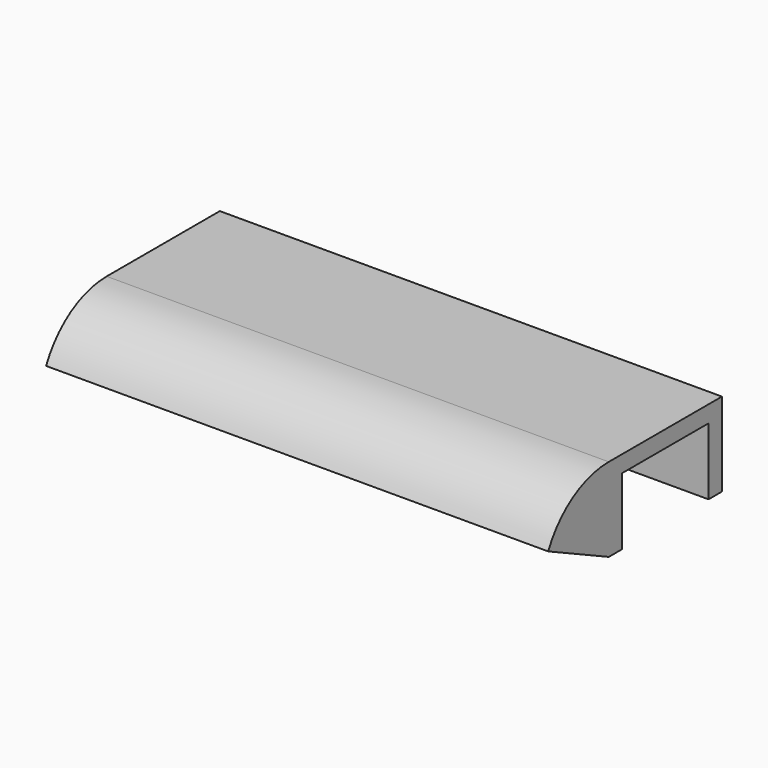
from build123d import *

# Parameters (mm, degrees)
F1_DEPTH = 150


with BuildPart() as f1:
    # F0 (on Right) → F1 (new body)
    with BuildSketch(Plane.YZ):
        with BuildLine():
            Line((-43.745468, 0.644926), (-21.125, -10))
            Line((-21.125, -10), (-21.125, 15))
            ThreePointArc((-21.125, 15), (-34.520463, 11.108329), (-43.745468, 0.644926))
        make_face()
        Polygon((-16.125, -10), (-16.125, 10), (16.125, 10), (16.125, -10), (21.125, -10), (21.125, 15), (-21.125, 15), (-21.125, -10), align=None)
    extrude(amount=F1_DEPTH)

    # F2 (on face) → F3 (revolve, cut)
    with BuildSketch(Plane(origin=(0, -7.68272, -16.325779), x_dir=(1, 0, 0), z_dir=(0, -0.425797, -0.904819))):
        with BuildLine():
            Line((54, 22.356325), (46, 22.356325))
            ThreePointArc((46, 22.356325), (43.5, 19.856325), (46, 17.356325))
            Line((46, 17.356325), (54, 17.356325))
            ThreePointArc((54, 17.356325), (56.5, 19.856325), (54, 22.356325))
        make_face()
        with BuildLine():
            Line((104, 22.356325), (96, 22.356325))
            ThreePointArc((96, 22.356325), (93.5, 19.856325), (96, 17.356325))
            Line((96, 17.356325), (104, 17.356325))
            ThreePointArc((104, 17.356325), (106.5, 19.856325), (104, 22.356325))
        make_face()
    revolve(axis=Axis((75, -32.435234, -4.677537), (1, 0, 0)), mode=Mode.SUBTRACT)


solid = f1.part
